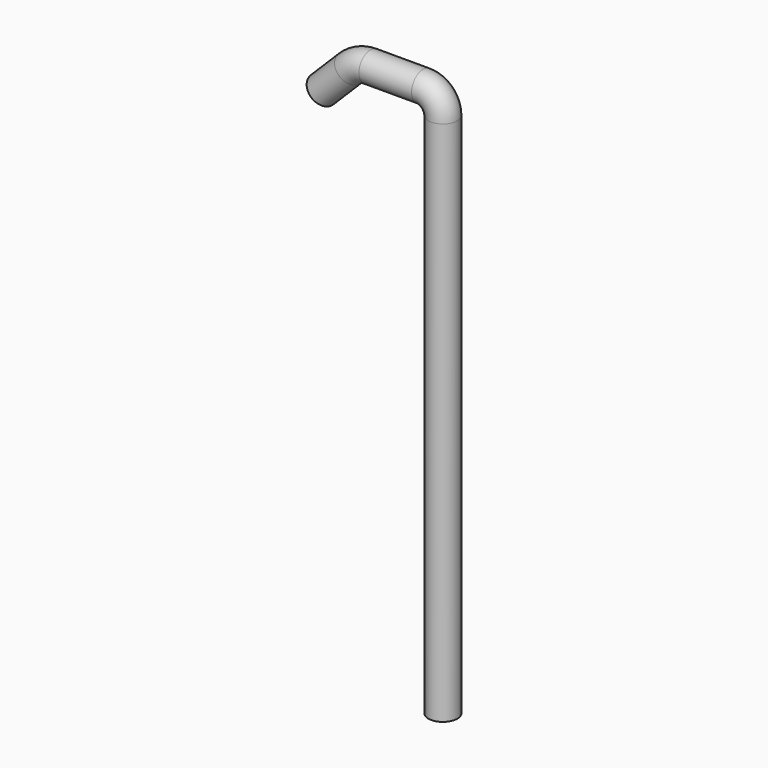
from build123d import *

# Parameters (mm, degrees)
F1_R = 11
F3_T = -0.8


with BuildPart() as f2:
    # F2: sweep along a path in F0
    with BuildLine(Plane.XZ) as f2_path:
        Line((0, 0), (0, 400))
        ThreePointArc((0, 400), (-4.3933982822, 410.6066017178), (-15, 415))
        Line((-15, 415), (-55, 415))
        ThreePointArc((-55, 415), (-63.419035512, 413.3253497152), (-70.5563491861, 408.5563491861))
        Line((-70.5563491861, 408.5563491861), (-91.7695526217, 387.3431457505))
    # F1 (on Top) → F2 (sweep)
    with BuildSketch(Plane.XY):
        Circle(F1_R)
    sweep(path=f2_path.line)

    # F3
    f3_openings = [f2.faces().sort_by_distance(p)[0] for p in [
        (-91.769553, 0, 387.343146),
        (0, 0, 0),
    ]]
    offset(amount=F3_T, openings=f3_openings)


solid = f2.part
